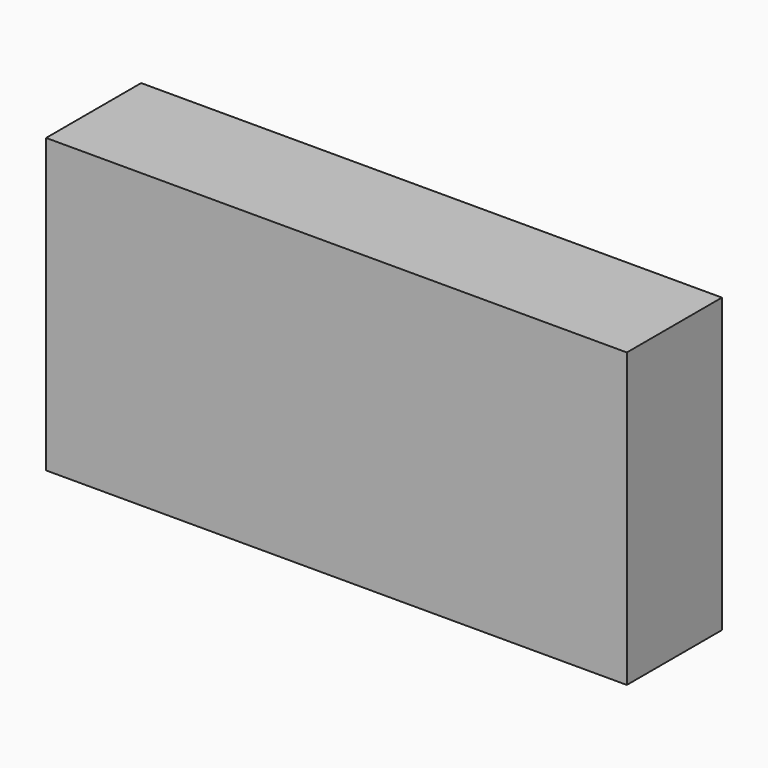
from build123d import *

# Parameters (mm, degrees)
F0_W     = 88.6754395919
F0_H     = 62.5690418352
F0_R     = 5.588
F1_DEPTH = 25.4
F2_DEPTH = 6.35
F3_DEPTH = 25.4
F4_DEPTH = 10.06593


with BuildPart() as f1:
    # F0 (on Front) → F1 (new body)
    with BuildSketch(Plane.XZ):
        with Locations((4.6873632818, 2.5576064363)):
            Rectangle(F0_W, F0_H)
        with Locations((-19.05, 0)):
            Circle(F0_R, mode=Mode.SUBTRACT)
        with Locations((19.05, 0.2921762194)):
            Circle(F0_R, mode=Mode.SUBTRACT)
        with Locations((-19.05, 0)):
            Circle(F0_R)
        with Locations((19.05, 0.2921762194)):
            Circle(F0_R)
    extrude(amount=F1_DEPTH)

    # F0 (on Front) → F2 (join)
    with BuildSketch(Plane.XZ):
        with Locations((19.05, 0.2921762194)):
            Circle(F0_R)
        with Locations((-19.05, 0)):
            Circle(F0_R)
    extrude(amount=-F2_DEPTH)

    # F3 (add): a face of the model
    f3_faces = [f1.faces().sort_by_distance(p)[0] for p in [
        (-39.6503565141, -12.7, 2.5576064363),
    ]]
    extrude(f3_faces, amount=F3_DEPTH)

    # F4 (add): a face of the model
    f4_faces = [f1.faces().sort_by_distance(p)[0] for p in [
        (49.0250830778, -12.7, 2.5576064363),
    ]]
    extrude(f4_faces, amount=F4_DEPTH)


solid = f1.part
